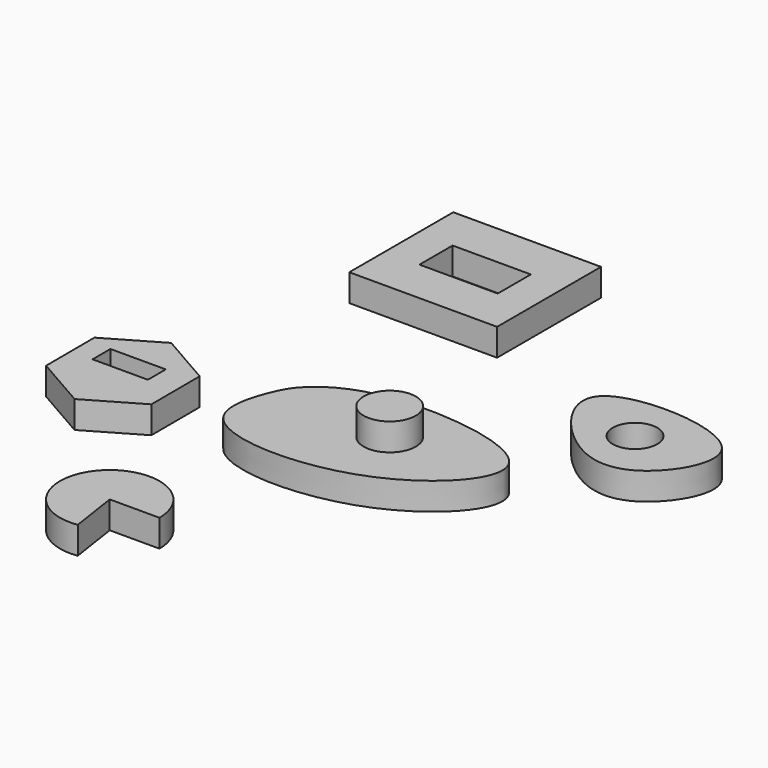
from build123d import *

# Parameters (mm, degrees)
F1_DEPTH  = 25
F2_R      = 23.9731754404
F3_DEPTH  = 25
F5_DEPTH  = 25
F6_R      = 20.4270765954
F7_DEPTH  = 25
F8_W      = 50.7951080799
F8_H      = 20.5768924206
F9_DEPTH  = 25
F10_W     = 135.7032060623
F10_H     = 119.3020343781
F10_W_2   = 71.8610882759
F10_H_2   = 38.018733263
F11_DEPTH = 25


with BuildPart() as f1:
    # F0 (on Top) → F1 (new body)
    with BuildSketch(Plane.XY):
        with BuildLine():
            add(Edge.make_bspline(
                [(-110.2490648627, 7.3336404748), (-106.1117231408, 17.5186508082), (-97.202158206, 32.4408349692), (-42.9871815198, 68.0023483731), (142.8226087633, 45.8913569282), (32.9649522482, -73.0932355118), (-134.5179263949, -66.4387887819), (-115.999382212, -6.8220772684), (-110.2490648627, 7.3336404748)],
                knots=[0, 0, 0, 0, 0.0959496641, 0.244978234, 0.4600544718, 0.6472860606, 0.8666435951, 1, 1, 1, 1], degree=3))
        make_face()
    extrude(amount=F1_DEPTH)

    # F2 (on face) → F3 (join)
    with BuildSketch(Plane.XY.offset(25)):
        with Locations((0, 7.4844267219)):
            Circle(F2_R)
    extrude(amount=F3_DEPTH)


with BuildPart() as f5:
    # F4 (on Top) → F5 (new body)
    with BuildSketch(Plane.XY):
        with BuildLine():
            Line((-96.233971417, -193.6290711164), (-50.5542549046, -193.6290711164))
            ThreePointArc((-50.5542549046, -193.6290711164), (-130.8473678034, -163.8205271862), (-89.4577052359, -238.8033859125))
            Line((-89.4577052359, -238.8033859125), (-96.233971417, -193.6290711164))
        make_face()
    extrude(amount=F5_DEPTH)


with BuildPart() as f7:
    # F6 (on Top) → F7 (new body)
    with BuildSketch(Plane.XY):
        with BuildLine():
            add(Edge.make_bspline(
                [(174.795627594, 80.1476314664), (155.8799558134, 66.3384798887), (111.4148464519, 69.1988876979), (30.9977828514, 174.3344587626), (234.8391956819, 166.2262265966), (194.4675427033, 94.5088691067), (174.795627594, 80.1476314664)],
                knots=[0, 0, 0, 0, 0.2206268353, 0.4651120876, 0.7705525649, 1, 1, 1, 1], degree=3))
        make_face()
        with Locations((136.3361030817, 118.6071559787)):
            Circle(F6_R, mode=Mode.SUBTRACT)
    extrude(amount=F7_DEPTH)


with BuildPart() as f9:
    # F8 (on Top) → F9 (new body)
    with BuildSketch(Plane.XY):
        Polygon((-213.6183311671, 23.6760866528), (-261.7561290532, -4.3162484353), (-261.5829546987, -60.0009718309), (-213.2719824582, -87.6933601384), (-165.1341845721, -59.7010250504), (-165.3073589266, -4.0163016548), align=None)
        with Locations((-216.3478136063, -21.1757617071)):
            Rectangle(F8_W, F8_H, mode=Mode.SUBTRACT)
    extrude(amount=F9_DEPTH)


with BuildPart() as f11:
    # F10 (on Top) → F11 (new body)
    with BuildSketch(Plane.XY):
        with Locations((-114.6041303873, 248.7987279892)):
            Rectangle(F10_W, F10_H)
        with Locations((-114.6041303873, 248.7987279892)):
            Rectangle(F10_W_2, F10_H_2, mode=Mode.SUBTRACT)
    extrude(amount=F11_DEPTH)


solid = Compound([f1.part, f5.part, f7.part, f9.part, f11.part])
